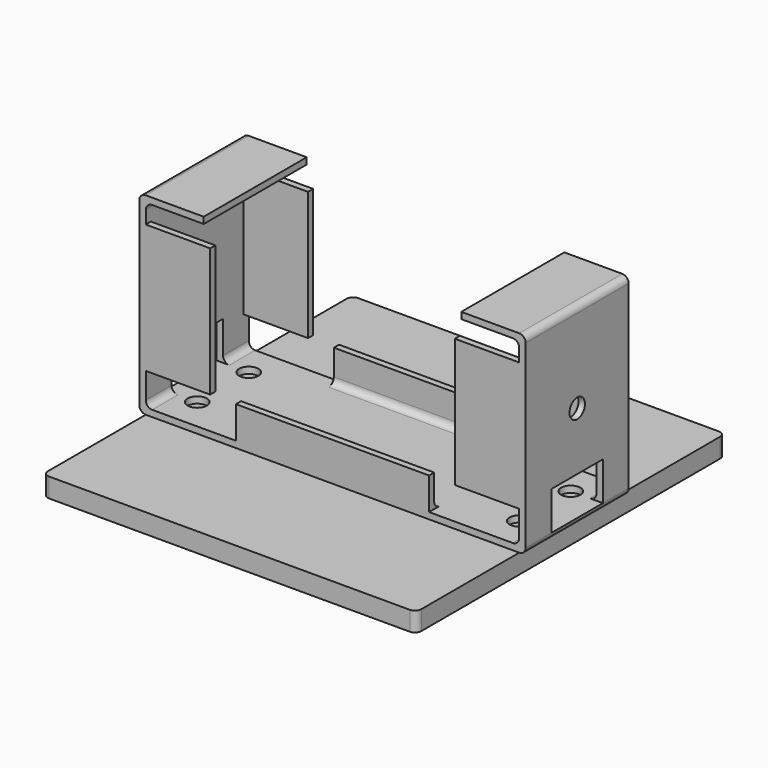
from build123d import *

# Parameters (mm, degrees)
SKETCH_W        = 60
SKETCH_H        = 30
PAD_DEPTH       = 20
SKETCH001_W     = 14
SKETCH001_H     = 5
POCKET_DEPTH    = 20.001
SKETCH002_W     = 14
SKETCH002_H     = 5
POCKET001_DEPTH = 20.001
SKETCH003_W     = 38
SKETCH003_H     = 20
POCKET002_DEPTH = 20.001
SKETCH005_W     = 38
SKETCH005_H     = 5
POCKET003_DEPTH = 20.001
SKETCH006_W     = 9
SKETCH006_H     = 3
POCKET004_DEPTH = 20.001
SKETCH007_W     = 1
SKETCH007_H     = 4
POCKET005_DEPTH = 20.001
SKETCH008_W     = 30
SKETCH008_H     = 18
POCKET006_DEPTH = 5
FILLET_R        = 1
FILLET001_R     = 1
FILLET002_R     = 1
FILLET003_R     = 1
FILLET004_R     = 1
FILLET005_R     = 1
FILLET006_R     = 1
FILLET007_R     = 1
SKETCH011_W     = 20
SKETCH011_H     = 18
POCKET007_DEPTH = 10
SKETCH012_W     = 20
SKETCH012_H     = 18
POCKET008_DEPTH = 10
FILLET008_R     = 1
FILLET009_R     = 1
SKETCH014_W     = 6
SKETCH014_H     = 10
POCKET009_DEPTH = 60.001
SKETCH015_R     = 1.5
POCKET010_DEPTH = 5
SKETCH016_R     = 1.5
POCKET011_DEPTH = 60.001
PAD001_DEPTH    = 3
FILLET010_R     = 1
FILLET011_R     = 1
FILLET012_R     = 1
FILLET013_R     = 1


with BuildPart() as part:
    # Sketch → Pad (new body)
    with BuildSketch(Plane.XZ):
        with Locations((30, 15)):
            Rectangle(SKETCH_W, SKETCH_H)
    extrude(amount=PAD_DEPTH)

    # Sketch001 (on Face6 of Pad) → Pocket (cut, through all)
    with BuildSketch(Plane.XZ.offset(20)):
        with Locations((8, 3.5)):
            Rectangle(SKETCH001_W, SKETCH001_H)
    extrude(amount=-POCKET_DEPTH, mode=Mode.SUBTRACT)

    # Sketch002 (on Face5 of Pocket) → Pocket001 (cut, through all)
    with BuildSketch(Plane.XZ.offset(20)):
        with Locations((52, 3.5)):
            Rectangle(SKETCH002_W, SKETCH002_H)
    extrude(amount=-POCKET001_DEPTH, mode=Mode.SUBTRACT)

    # Sketch003 (on Face5 of Pocket001) → Pocket002 (cut, through all)
    with BuildSketch(Plane.XZ.offset(20)):
        with Locations((30, 16)):
            Rectangle(SKETCH003_W, SKETCH003_H)
    extrude(amount=-POCKET002_DEPTH, mode=Mode.SUBTRACT)

    # Sketch005 (on Face5 of Pocket002) → Pocket003 (cut, through all)
    with BuildSketch(Plane.XZ.offset(20)):
        with Locations((30, 28.5)):
            Rectangle(SKETCH005_W, SKETCH005_H)
    extrude(amount=-POCKET003_DEPTH, mode=Mode.SUBTRACT)

    # Sketch006 (on Face5 of Pocket003) → Pocket004 (cut, through all)
    with BuildSketch(Plane.XZ.offset(20)):
        with Locations((5.5, 27.5)):
            Rectangle(SKETCH006_W, SKETCH006_H)
        with Locations((54.5, 27.5)):
            Rectangle(SKETCH006_W, SKETCH006_H)
    extrude(amount=-POCKET004_DEPTH, mode=Mode.SUBTRACT)

    # Sketch007 (on Face5 of Pocket004) → Pocket005 (cut, through all)
    with BuildSketch(Plane.XZ.offset(20)):
        with Locations((10.5, 28)):
            Rectangle(SKETCH007_W, SKETCH007_H)
        with Locations((49.5, 28)):
            Rectangle(SKETCH007_W, SKETCH007_H)
    extrude(amount=-POCKET005_DEPTH, mode=Mode.SUBTRACT)

    # Sketch008 (on Face18 of Pocket005) → Pocket006 (cut)
    with BuildSketch(Plane(origin=(0, 0, 6), x_dir=(-1, 0, 0), z_dir=(0, 0, 1))):
        with Locations((-30, 10)):
            Rectangle(SKETCH008_W, SKETCH008_H)
    extrude(amount=-POCKET006_DEPTH, mode=Mode.SUBTRACT)

    # Fillet
    fillet_edges = [part.edges().sort_by_distance(p)[0] for p in [
        (60, -10, 0),
    ]]
    fillet(fillet_edges, radius=FILLET_R)

    # Fillet001
    fillet001_edges = [part.edges().sort_by_distance(p)[0] for p in [
        (0, -10, 0),
    ]]
    fillet(fillet001_edges, radius=FILLET001_R)

    # Fillet002
    fillet002_edges = [part.edges().sort_by_distance(p)[0] for p in [
        (0, -10, 30),
    ]]
    fillet(fillet002_edges, radius=FILLET002_R)

    # Fillet003
    fillet003_edges = [part.edges().sort_by_distance(p)[0] for p in [
        (60, -10, 30),
    ]]
    fillet(fillet003_edges, radius=FILLET003_R)

    # Fillet004
    fillet004_edges = [part.edges().sort_by_distance(p)[0] for p in [
        (1, -10, 29),
    ]]
    fillet(fillet004_edges, radius=FILLET004_R)

    # Fillet005
    fillet005_edges = [part.edges().sort_by_distance(p)[0] for p in [
        (1, -10, 1),
    ]]
    fillet(fillet005_edges, radius=FILLET005_R)

    # Fillet006
    fillet006_edges = [part.edges().sort_by_distance(p)[0] for p in [
        (59, -10, 29),
    ]]
    fillet(fillet006_edges, radius=FILLET006_R)

    # Fillet007
    fillet007_edges = [part.edges().sort_by_distance(p)[0] for p in [
        (59, -10, 1),
    ]]
    fillet(fillet007_edges, radius=FILLET007_R)

    # Sketch011 (on Face6 of Fillet007) → Pocket007 (cut)
    with BuildSketch(Plane(origin=(49, 0, 0), x_dir=(0, 0, -1), z_dir=(-1, 0, 0))):
        with Locations((-16, 10)):
            Rectangle(SKETCH011_W, SKETCH011_H)
    extrude(amount=-POCKET007_DEPTH, mode=Mode.SUBTRACT)

    # Sketch012 (on Face21 of Pocket007) → Pocket008 (cut)
    with BuildSketch(Plane(origin=(11, 0, 0), x_dir=(0, 0, 1), z_dir=(1, 0, 0))):
        with Locations((16, 10)):
            Rectangle(SKETCH012_W, SKETCH012_H)
    extrude(amount=-POCKET008_DEPTH, mode=Mode.SUBTRACT)

    # Fillet008
    fillet008_edges = [part.edges().sort_by_distance(p)[0] for p in [
        (30, -19, 1),
    ]]
    fillet(fillet008_edges, radius=FILLET008_R)

    # Fillet009
    fillet009_edges = [part.edges().sort_by_distance(p)[0] for p in [
        (30, -1, 1),
    ]]
    fillet(fillet009_edges, radius=FILLET009_R)

    # Sketch014 (on Face33 of Fillet009) → Pocket009 (cut, through all)
    with BuildSketch(Plane(origin=(60, 0, 0), x_dir=(0, 0, 1), z_dir=(1, 0, 0))):
        with Locations((4, 10)):
            Rectangle(SKETCH014_W, SKETCH014_H)
    extrude(amount=-POCKET009_DEPTH, mode=Mode.SUBTRACT)

    # Sketch015 (on Face32 of Pocket009) → Pocket010 (cut)
    with BuildSketch(Plane(origin=(0, 0, 0), x_dir=(1, 0, 0), z_dir=(0, 0, -1))):
        with Locations((55, 5)):
            Circle(SKETCH015_R)
        with Locations((55, 15)):
            Circle(SKETCH015_R)
        with Locations((5, 5)):
            Circle(SKETCH015_R)
        with Locations((5, 15)):
            Circle(SKETCH015_R)
    extrude(amount=-POCKET010_DEPTH, mode=Mode.SUBTRACT)

    # Sketch016 (on Face30 of Pocket010) → Pocket011 (cut, through all)
    with BuildSketch(Plane(origin=(0, 0, 0), x_dir=(0, 0, -1), z_dir=(-1, 0, 0))):
        with Locations((-15.994056, 9.992209)):
            Circle(SKETCH016_R)
    extrude(amount=-POCKET011_DEPTH, mode=Mode.SUBTRACT)

    # Sketch017 (on Face32 of Pocket011) → Pad001 (join)
    with BuildSketch(Plane(origin=(0, 0, 0), x_dir=(1, 0, 0), z_dir=(0, 0, -1))):
        Polygon((59, 20), (59, 40), (1, 40), (1, 20), (1, 0), (1, -20), (59, -20), (59, 0), align=None)
    extrude(amount=PAD001_DEPTH)

    # Fillet010
    fillet010_edges = [part.edges().sort_by_distance(p)[0] for p in [
        (59, -40, -1.5),
    ]]
    fillet(fillet010_edges, radius=FILLET010_R)

    # Fillet011
    fillet011_edges = [part.edges().sort_by_distance(p)[0] for p in [
        (1, 20, -1.5),
    ]]
    fillet(fillet011_edges, radius=FILLET011_R)

    # Fillet012
    fillet012_edges = [part.edges().sort_by_distance(p)[0] for p in [
        (59, 20, -1.5),
    ]]
    fillet(fillet012_edges, radius=FILLET012_R)

    # Fillet013
    fillet013_edges = [part.edges().sort_by_distance(p)[0] for p in [
        (1, -40, -1.5),
    ]]
    fillet(fillet013_edges, radius=FILLET013_R)


solid = part.part
